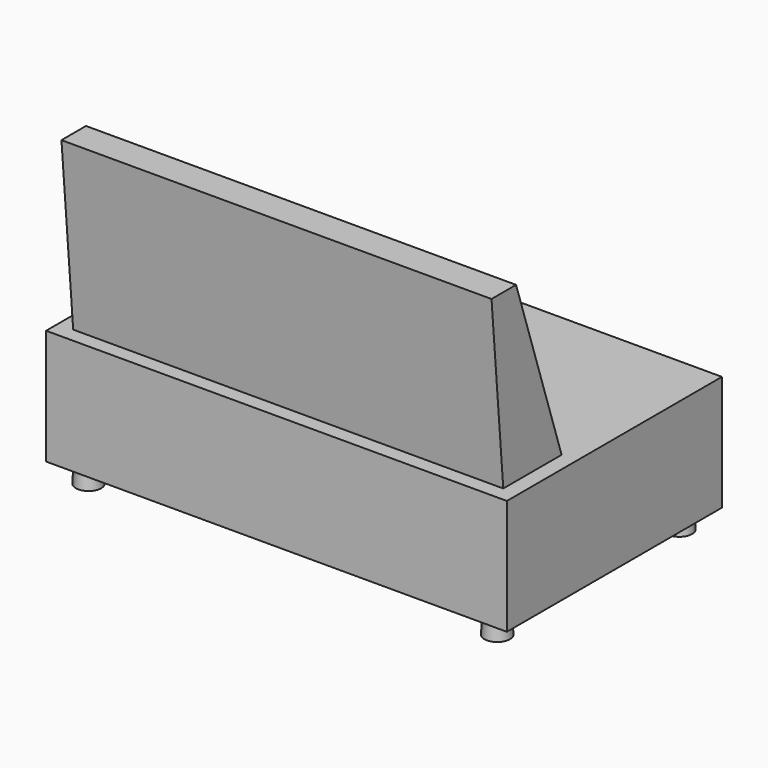
from build123d import *

# Parameters (mm, degrees)
F0_W     = 1200
F0_H     = 700
F1_DEPTH = 300
F2_R     = 30.5098573856
F3_DEPTH = 50
F3_TAPER = -3
F5_DEPTH = 560


with BuildPart() as f1:
    # F0 (on Top) → F1 (new body)
    with BuildSketch(Plane.XY):
        Rectangle(F0_W, F0_H)
    extrude(amount=F1_DEPTH)

    # F2 (on face) → F3 (join)
    with BuildSketch(Plane(origin=(0, 0, 0), x_dir=(1, 0, 0), z_dir=(0, 0, -1))):
        with Locations((-532.1071147919, -296.6614961624)):
            Circle(F2_R)
        with Locations((532.1071147919, -296.6614961624)):
            Circle(F2_R)
        with Locations((532.1071147919, 296.6614961624)):
            Circle(F2_R)
        with Locations((-532.1071147919, 296.6614961624)):
            Circle(F2_R)
    extrude(amount=F3_DEPTH, taper=F3_TAPER)

    # F4 (on Right) → F5 (join, symmetric)
    with BuildSketch(Plane.YZ):
        Polygon((-305.8277244632, 230.5950983165), (-107.0006990349, 254.912089853), (-270.1073586941, 750), (-350, 750), align=None)
    extrude(amount=F5_DEPTH, both=True)


solid = f1.part
